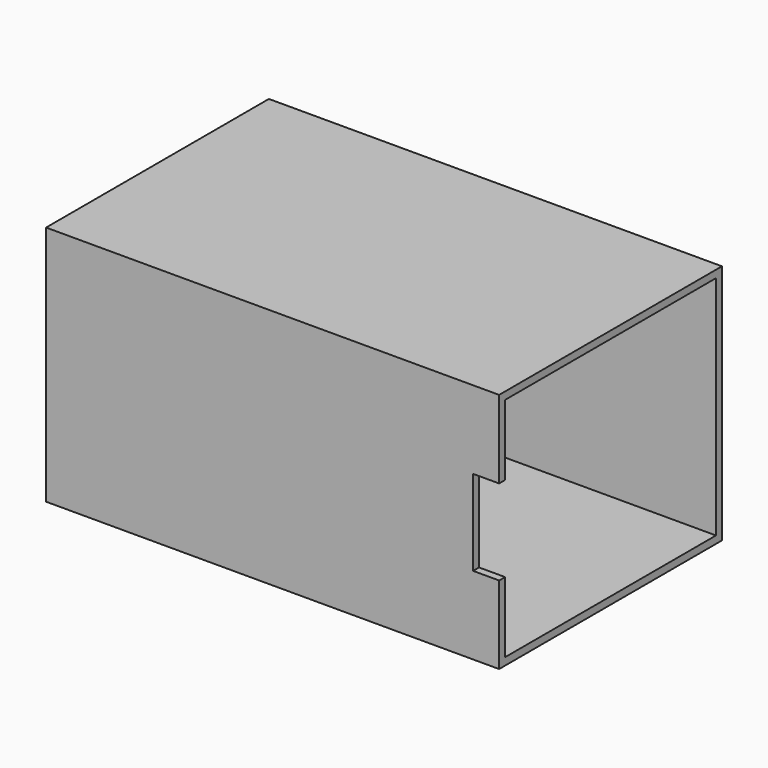
from build123d import *

# Parameters (mm, degrees)
F0_W     = 122
F0_H     = 75
F1_DEPTH = 65
F2_W     = 71
F2_H     = 61
F3_DEPTH = 120
F4_W     = 7
F4_H     = 23
F5_DEPTH = 25


with BuildPart() as f1:
    # F0 (on Top) → F1 (new body)
    with BuildSketch(Plane.XY):
        with Locations((61, 37.5)):
            Rectangle(F0_W, F0_H)
        with Locations((61, 37.5)):
            Rectangle(F0_W, F0_H)
    extrude(amount=F1_DEPTH)

    # F2 (on face) → F3 (cut)
    with BuildSketch(Plane.YZ.offset(122)):
        with Locations((37.5, 32.5)):
            Rectangle(F2_W, F2_H)
    extrude(amount=-F3_DEPTH, mode=Mode.SUBTRACT)

    # F4 (on face) → F5 (cut)
    with BuildSketch(Plane.XZ):
        with Locations((118.5, 32.5)):
            Rectangle(F4_W, F4_H)
    extrude(amount=-F5_DEPTH, mode=Mode.SUBTRACT)


solid = f1.part
